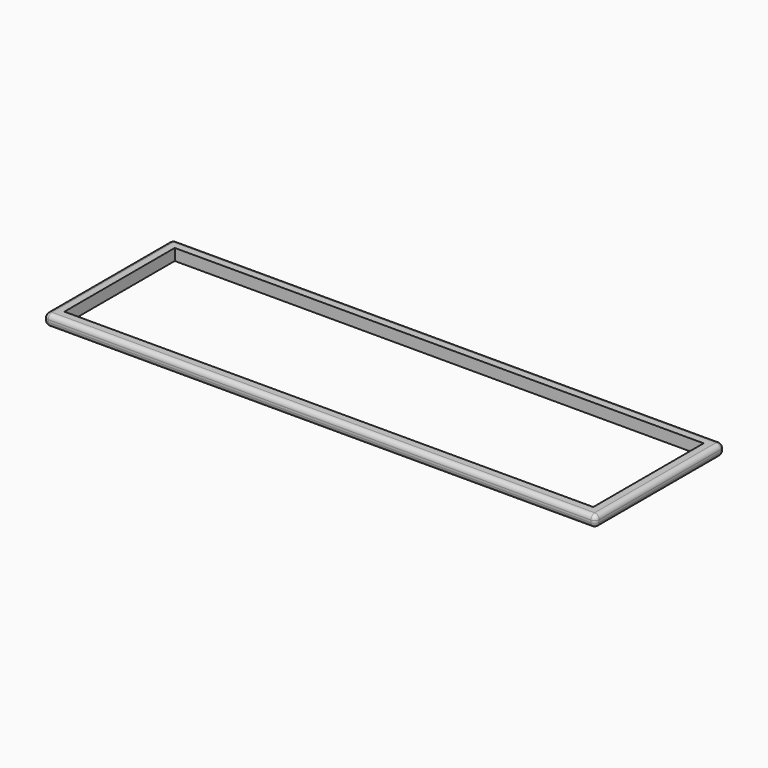
from build123d import *

# Parameters (mm, degrees)
F0_W     = 609.6
F0_H     = 177.8
F0_W_2   = 584.2
F0_H_2   = 152.4
F1_DEPTH = 12.7
F2_R     = 5.08


with BuildPart() as f1:
    # F0 (on Top) → F1 (new body)
    with BuildSketch(Plane.XY):
        Rectangle(F0_W, F0_H)
        Rectangle(F0_W_2, F0_H_2, mode=Mode.SUBTRACT)
    extrude(amount=F1_DEPTH)

    # F2
    f2_edges = [f1.edges().sort_by_distance(p)[0] for p in [
        (0, -88.9, 12.7),
        (-304.8, 0, 12.7),
        (304.8, 0, 0),
        (0, 88.9, 12.7),
        (304.8, 88.9, 6.35),
        (304.8, -88.9, 6.35),
        (-304.8, -88.9, 6.35),
        (-304.8, 88.9, 6.35),
        (304.8, 0, 12.7),
        (0, -88.9, 0),
        (0, 88.9, 0),
        (-304.8, 0, 0),
    ]]
    fillet(f2_edges, radius=F2_R)


solid = f1.part
